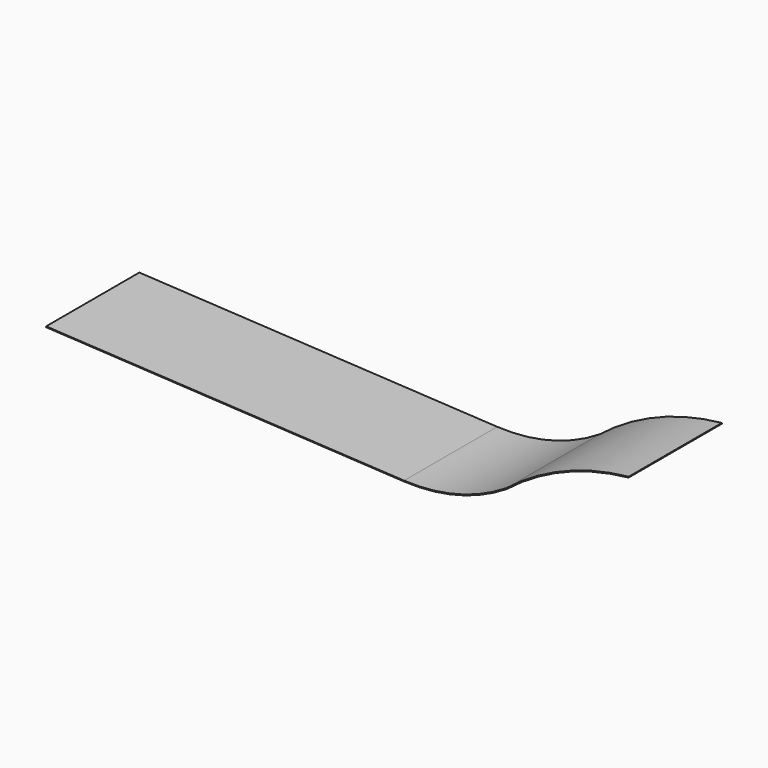
from build123d import *

# Parameters (mm, degrees)
F1_DEPTH      = 76.2
F1_DEPTH_BACK = 76.2


with BuildPart() as f1:
    # F0 (on Front) → F1 (new body, two sides)
    with BuildSketch(Plane.XZ) as f1_sk:
        with BuildLine():
            Line((-202.168562, 178.864715), (-202.235902, 177.8))
            Line((-202.235902, 177.8), (265.896064, 152.4))
            ThreePointArc((265.896064, 152.4), (335.923144, 159.450833), (400.48638, 187.470376))
            ThreePointArc((400.48638, 187.470376), (475.446875, 231.42442), (559.764098, 252.439644))
            Line((559.764098, 252.439644), (559.912065, 253.526855))
            ThreePointArc((559.912065, 253.526855), (475.190079, 232.471765), (399.866841, 188.340805))
            ThreePointArc((399.866841, 188.340805), (335.625955, 160.475818), (265.953862, 153.465233))
            Line((265.953862, 153.465233), (-202.168562, 178.864715))
        make_face()
    extrude(amount=F1_DEPTH)
    extrude(f1_sk.sketch, amount=-F1_DEPTH_BACK)


solid = f1.part
